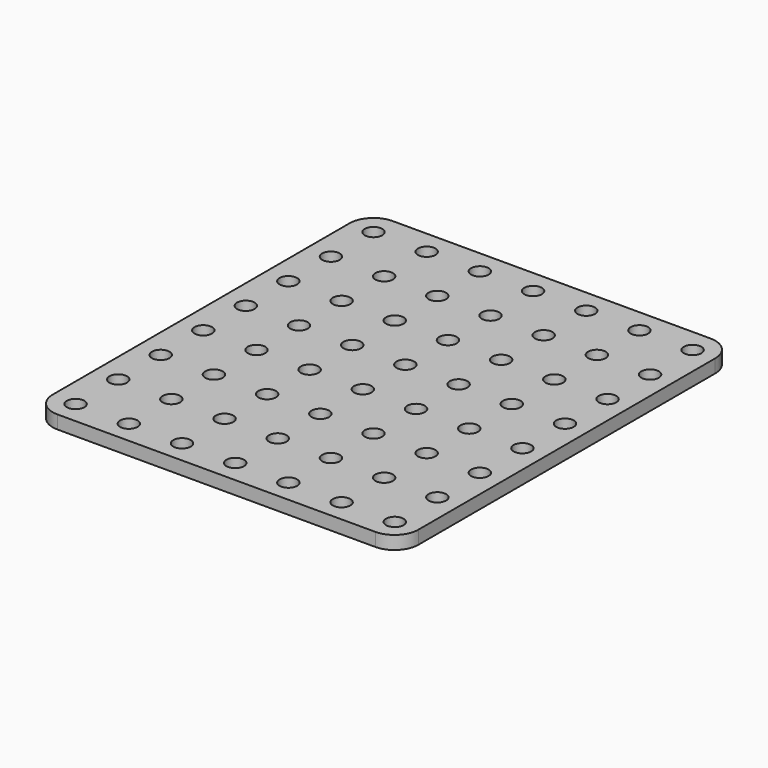
from build123d import *

# Parameters (mm, degrees)
F0_W     = 68.75
F0_H     = 78.75
F0_R     = 1.65
F1_DEPTH = 2.5
F2_R     = 4.5


with BuildPart() as f1:
    # F0 (on Top) → F1 (new body)
    with BuildSketch(Plane.XY):
        Rectangle(F0_W, F0_H)
        with Locations((-29.875, -35.125)):
            Circle(F0_R, mode=Mode.SUBTRACT)
        with Locations((-19.875, -35.125)):
            Circle(F0_R, mode=Mode.SUBTRACT)
        with Locations((-29.875, -25.125)):
            Circle(F0_R, mode=Mode.SUBTRACT)
        with Locations((-19.875, -25.125)):
            Circle(F0_R, mode=Mode.SUBTRACT)
        with Locations((-9.875, -35.125)):
            Circle(F0_R, mode=Mode.SUBTRACT)
        with Locations((-9.875, -25.125)):
            Circle(F0_R, mode=Mode.SUBTRACT)
        with Locations((-29.875, -15.125)):
            Circle(F0_R, mode=Mode.SUBTRACT)
        with Locations((-19.875, -15.125)):
            Circle(F0_R, mode=Mode.SUBTRACT)
        with Locations((-29.875, -5.125)):
            Circle(F0_R, mode=Mode.SUBTRACT)
        with Locations((-19.875, -5.125)):
            Circle(F0_R, mode=Mode.SUBTRACT)
        with Locations((-9.875, -15.125)):
            Circle(F0_R, mode=Mode.SUBTRACT)
        with Locations((-9.875, -5.125)):
            Circle(F0_R, mode=Mode.SUBTRACT)
        with Locations((0.125, -35.125)):
            Circle(F0_R, mode=Mode.SUBTRACT)
        with Locations((10.125, -35.125)):
            Circle(F0_R, mode=Mode.SUBTRACT)
        with Locations((0.125, -25.125)):
            Circle(F0_R, mode=Mode.SUBTRACT)
        with Locations((10.125, -25.125)):
            Circle(F0_R, mode=Mode.SUBTRACT)
        with Locations((20.125, -35.125)):
            Circle(F0_R, mode=Mode.SUBTRACT)
        with Locations((30.125, -35.125)):
            Circle(F0_R, mode=Mode.SUBTRACT)
        with Locations((20.125, -25.125)):
            Circle(F0_R, mode=Mode.SUBTRACT)
        with Locations((30.125, -25.125)):
            Circle(F0_R, mode=Mode.SUBTRACT)
        with Locations((0.125, -15.125)):
            Circle(F0_R, mode=Mode.SUBTRACT)
        with Locations((10.125, -15.125)):
            Circle(F0_R, mode=Mode.SUBTRACT)
        with Locations((0.125, -5.125)):
            Circle(F0_R, mode=Mode.SUBTRACT)
        with Locations((10.125, -5.125)):
            Circle(F0_R, mode=Mode.SUBTRACT)
        with Locations((20.125, -15.125)):
            Circle(F0_R, mode=Mode.SUBTRACT)
        with Locations((30.125, -15.125)):
            Circle(F0_R, mode=Mode.SUBTRACT)
        with Locations((20.125, -5.125)):
            Circle(F0_R, mode=Mode.SUBTRACT)
        with Locations((30.125, -5.125)):
            Circle(F0_R, mode=Mode.SUBTRACT)
        with Locations((-29.875, 4.875)):
            Circle(F0_R, mode=Mode.SUBTRACT)
        with Locations((-19.875, 4.875)):
            Circle(F0_R, mode=Mode.SUBTRACT)
        with Locations((-29.875, 14.875)):
            Circle(F0_R, mode=Mode.SUBTRACT)
        with Locations((-19.875, 14.875)):
            Circle(F0_R, mode=Mode.SUBTRACT)
        with Locations((-9.875, 4.875)):
            Circle(F0_R, mode=Mode.SUBTRACT)
        with Locations((-9.875, 14.875)):
            Circle(F0_R, mode=Mode.SUBTRACT)
        with Locations((-29.875, 24.875)):
            Circle(F0_R, mode=Mode.SUBTRACT)
        with Locations((-19.875, 24.875)):
            Circle(F0_R, mode=Mode.SUBTRACT)
        with Locations((-29.875, 34.875)):
            Circle(F0_R, mode=Mode.SUBTRACT)
        with Locations((-19.875, 34.875)):
            Circle(F0_R, mode=Mode.SUBTRACT)
        with Locations((-9.875, 24.875)):
            Circle(F0_R, mode=Mode.SUBTRACT)
        with Locations((-9.875, 34.875)):
            Circle(F0_R, mode=Mode.SUBTRACT)
        with Locations((0.125, 4.875)):
            Circle(F0_R, mode=Mode.SUBTRACT)
        with Locations((10.125, 4.875)):
            Circle(F0_R, mode=Mode.SUBTRACT)
        with Locations((0.125, 14.875)):
            Circle(F0_R, mode=Mode.SUBTRACT)
        with Locations((10.125, 14.875)):
            Circle(F0_R, mode=Mode.SUBTRACT)
        with Locations((20.125, 4.875)):
            Circle(F0_R, mode=Mode.SUBTRACT)
        with Locations((30.125, 4.875)):
            Circle(F0_R, mode=Mode.SUBTRACT)
        with Locations((20.125, 14.875)):
            Circle(F0_R, mode=Mode.SUBTRACT)
        with Locations((30.125, 14.875)):
            Circle(F0_R, mode=Mode.SUBTRACT)
        with Locations((0.125, 24.875)):
            Circle(F0_R, mode=Mode.SUBTRACT)
        with Locations((10.125, 24.875)):
            Circle(F0_R, mode=Mode.SUBTRACT)
        with Locations((0.125, 34.875)):
            Circle(F0_R, mode=Mode.SUBTRACT)
        with Locations((10.125, 34.875)):
            Circle(F0_R, mode=Mode.SUBTRACT)
        with Locations((20.125, 24.875)):
            Circle(F0_R, mode=Mode.SUBTRACT)
        with Locations((30.125, 24.875)):
            Circle(F0_R, mode=Mode.SUBTRACT)
        with Locations((20.125, 34.875)):
            Circle(F0_R, mode=Mode.SUBTRACT)
        with Locations((30.125, 34.875)):
            Circle(F0_R, mode=Mode.SUBTRACT)
    extrude(amount=F1_DEPTH)

    # F2
    f2_edges = [f1.edges().sort_by_distance(p)[0] for p in [
        (34.375, 39.375, 1.25),
        (34.375, -39.375, 1.25),
        (-34.375, 39.375, 1.25),
        (-34.375, -39.375, 1.25),
    ]]
    fillet(f2_edges, radius=F2_R)


solid = f1.part
